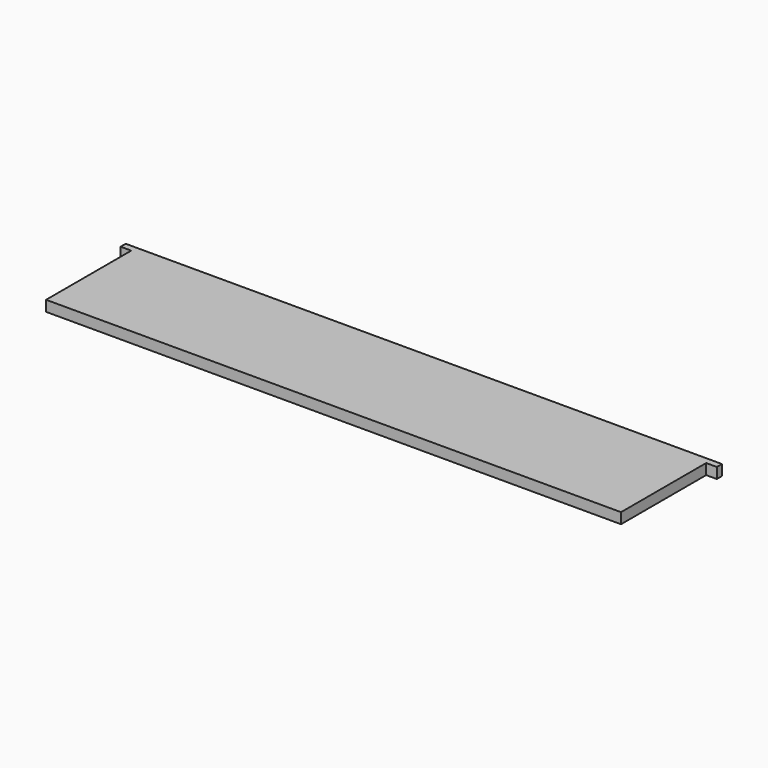
from build123d import *

# Parameters (mm, degrees)
F0_W     = 5
F0_H     = 3
F1_DEPTH = 2.5


with BuildPart() as f1:
    # F0 (on Top) → F1 (new body, symmetric)
    with BuildSketch(Plane.XY):
        Polygon((135, 26.49), (-135, 26.49), (-135, 23.49), (-135, -26.49), (135, -26.49), (135, 23.49), align=None)
        with Locations((137.5, 24.99)):
            Rectangle(F0_W, F0_H)
        with Locations((-137.5, 24.99)):
            Rectangle(F0_W, F0_H)
    extrude(amount=F1_DEPTH, both=True)


solid = f1.part
